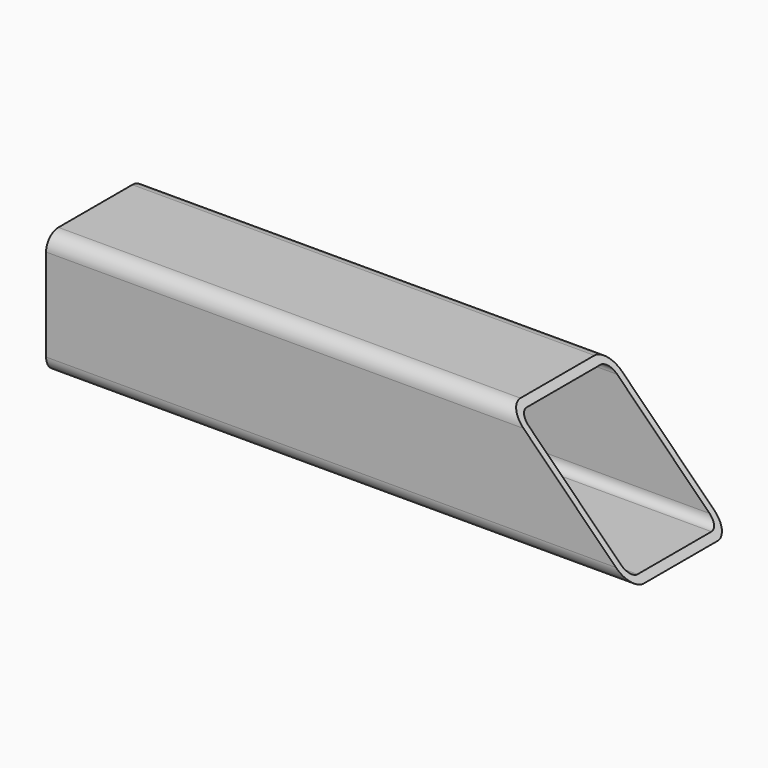
from build123d import *

# Parameters (mm, degrees)
F1_DEPTH = 254
F2_T     = -2.54
F4_DEPTH = 25.4


with BuildPart() as f1:
    # F0 (on Right) → F1 (new body)
    with BuildSketch(Plane.YZ):
        with BuildLine():
            ThreePointArc((25.4, 19.05), (23.540128, 23.540128), (19.05, 25.4))
            Line((19.05, 25.4), (-19.05, 25.4))
            ThreePointArc((-19.05, 25.4), (-23.540128, 23.540128), (-25.4, 19.05))
            Line((-25.4, 19.05), (-25.4, -19.05))
            ThreePointArc((-25.4, -19.05), (-23.540128, -23.540128), (-19.05, -25.4))
            Line((-19.05, -25.4), (19.05, -25.4))
            ThreePointArc((19.05, -25.4), (23.540128, -23.540128), (25.4, -19.05))
            Line((25.4, -19.05), (25.4, 19.05))
        make_face()
    extrude(amount=F1_DEPTH)

    # F2
    f2_openings = [f1.faces().sort_by_distance(p)[0] for p in [
        (254, 0, 0),
        (0, 0, 0),
    ]]
    offset(amount=F2_T, openings=f2_openings)

    # F3 (on Front) → F4 (cut, symmetric)
    with BuildSketch(Plane.XZ):
        Polygon((254, 25.4), (190.5, 25.4), (241.3, -25.4), (254, -25.4), align=None)
    extrude(amount=F4_DEPTH, both=True, mode=Mode.SUBTRACT)


solid = f1.part
